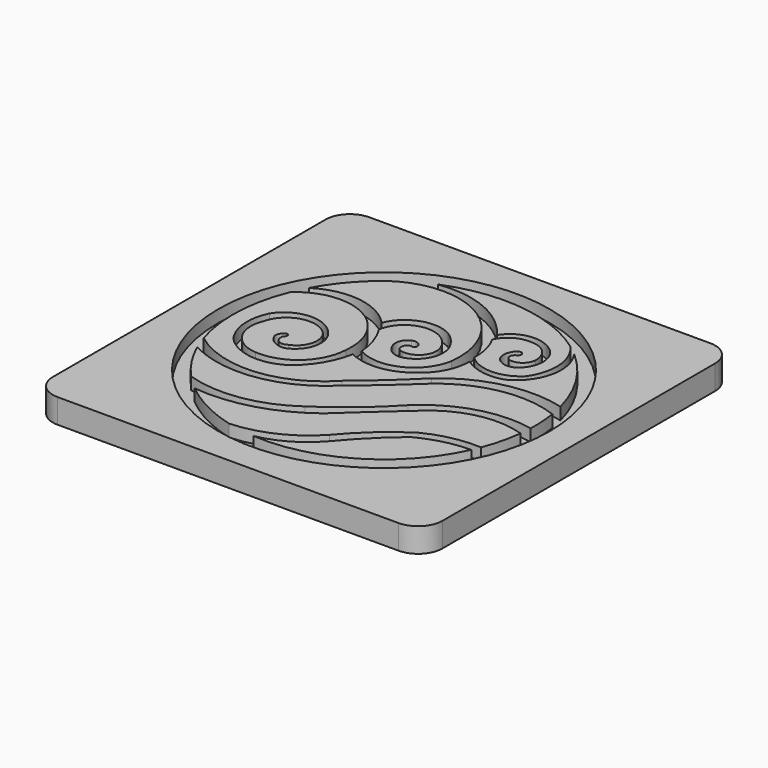
from build123d import *

# Parameters (mm, degrees)
F1_DEPTH = 6.35
F2_R     = 43.18
F3_DEPTH = 3.175


with BuildPart() as f1:
    # F0 (on Top) → F1 (new body)
    with BuildSketch(Plane.XY):
        with BuildLine():
            Line((44.45, 50.8), (-44.45, 50.8))
            ThreePointArc((-44.45, 50.8), (-48.940128, 48.940128), (-50.8, 44.45))
            Line((-50.8, 44.45), (-50.8, -44.45))
            ThreePointArc((-50.8, -44.45), (-48.940128, -48.940128), (-44.45, -50.8))
            Line((-44.45, -50.8), (44.45, -50.8))
            ThreePointArc((44.45, -50.8), (48.940128, -48.940128), (50.8, -44.45))
            Line((50.8, -44.45), (50.8, 44.45))
            ThreePointArc((50.8, 44.45), (48.940128, 48.940128), (44.45, 50.8))
        make_face()
    extrude(amount=F1_DEPTH)

    # F2 (on face) → F3 (cut)
    with BuildSketch(Plane.XY.offset(6.35)):
        Circle(F2_R)
        with BuildLine():
            ThreePointArc((35.830027, -16.315821), (20.204607, -33.790098), (-2.58374, -39.285127))
            ThreePointArc((-2.58374, -39.285127), (4.747118, -36.517246), (10.782814, -31.519946))
            ThreePointArc((10.782814, -31.519946), (16.427451, -25.311935), (22.634907, -19.666689))
            ThreePointArc((22.634907, -19.666689), (29.030027, -17.194081), (35.830027, -16.315821))
        make_face(mode=Mode.SUBTRACT)
        with BuildLine():
            ThreePointArc((-9.899706, -38.105022), (-17.917908, -35.056319), (-25.085457, -30.343315))
            ThreePointArc((-25.085457, -30.343315), (-10.61459, -29.092618), (2.344406, -22.532538))
            ThreePointArc((2.344406, -22.532538), (9.787045, -15.731443), (17.303402, -9.011908))
            ThreePointArc((17.303402, -9.011908), (27.593343, -3.772844), (39.123036, -4.402834))
            ThreePointArc((39.123036, -4.402834), (38.232302, -9.396167), (36.706991, -14.233543))
            ThreePointArc((36.706991, -14.233543), (29.479665, -14.782685), (22.634907, -17.167022))
            ThreePointArc((22.634907, -17.167022), (15.458512, -22.677295), (9.168963, -29.181547))
            ThreePointArc((9.168963, -29.181547), (0.512727, -35.519703), (-9.899706, -38.105022))
        make_face(mode=Mode.SUBTRACT)
        with BuildLine():
            ThreePointArc((-28.951135, -26.680118), (-32.941202, -21.560939), (-36.035977, -15.855765))
            ThreePointArc((-36.035977, -15.855765), (-18.476277, -18.776194), (-2.58374, -10.757512))
            ThreePointArc((-2.58374, -10.757512), (4.205031, -5.018711), (10.782814, 0.960756))
            ThreePointArc((10.782814, 0.960756), (24.078577, 7.549898), (38.864055, 6.291432))
            ThreePointArc((38.864055, 6.291432), (39.291598, 2.483397), (39.34691, -1.348164))
            ThreePointArc((39.34691, -1.348164), (25.459159, -1.978206), (13.467762, -9.011908))
            ThreePointArc((13.467762, -9.011908), (5.843991, -16.249448), (-2.58374, -22.532538))
            ThreePointArc((-2.58374, -22.532538), (-15.275761, -27.732057), (-28.951135, -26.680118))
        make_face(mode=Mode.SUBTRACT)
        with BuildLine():
            ThreePointArc((-3.792618, -9.011908), (-20.108035, -16.966318), (-37.533355, -11.884619))
            ThreePointArc((-37.533355, -11.884619), (-39.334778, 1.664978), (-36.394785, 15.013879))
            ThreePointArc((-36.394785, 15.013879), (-19.548147, 17.120851), (-11.623084, 2.106128))
            ThreePointArc((-11.623084, 2.106128), (-15.8727, -6.927744), (-25.315939, -10.167394))
            ThreePointArc((-25.315939, -10.167394), (-32.018706, -6.233835), (-32.666095, 1.510897))
            ThreePointArc((-32.666095, 1.510897), (-27.765063, 6.938703), (-20.569334, 5.633835))
            ThreePointArc((-20.569334, 5.633835), (-18.810376, 0.630934), (-22.223454, -3.427865))
            ThreePointArc((-22.223454, -3.427865), (-24.636431, -3.441846), (-25.315939, -1.12648))
            ThreePointArc((-25.315939, -1.12648), (-24.87664, -0.443257), (-25.315939, 0.239966))
            ThreePointArc((-25.315939, 0.239966), (-26.550153, -0.620979), (-26.853859, -2.094843))
            ThreePointArc((-26.853859, -2.094843), (-24.8636, -4.486405), (-21.79506, -5.000961))
            ThreePointArc((-21.79506, -5.000961), (-18.057747, -1.44174), (-17.920237, 3.717394))
            ThreePointArc((-17.920237, 3.717394), (-25.512349, 9.134125), (-33.85007, 4.955185))
            ThreePointArc((-33.85007, 4.955185), (-35.104751, -1.829456), (-32.666095, -8.283798))
            ThreePointArc((-32.666095, -8.283798), (-24.810949, -12.292556), (-16.25191, -10.167394))
            ThreePointArc((-16.25191, -10.167394), (-11.765874, -4.942736), (-9.363333, 1.510897))
            ThreePointArc((-9.363333, 1.510897), (-1.52454, 0.163596), (5.813062, 3.233041))
            ThreePointArc((5.813062, 3.233041), (9.821154, 7.902724), (11.248579, 13.888808))
            ThreePointArc((11.248579, 13.888808), (15.748865, 11.857558), (20.686024, 11.802628))
            ThreePointArc((20.686024, 11.802628), (21.955711, 12.195598), (23.115785, 12.844257))
            ThreePointArc((23.115785, 12.844257), (28.022683, 20.770437), (25.723282, 29.804525))
            ThreePointArc((25.723282, 29.804525), (33.435684, 20.785858), (38.110449, 9.878793))
            ThreePointArc((38.110449, 9.878793), (23.134356, 10.130821), (9.823904, 3.26214))
            ThreePointArc((9.823904, 3.26214), (3.175845, -3.052608), (-3.792618, -9.011908))
        make_face(mode=Mode.SUBTRACT)
        with BuildLine():
            ThreePointArc((0, 20.890631), (-7.799723, 21.471197), (-13.435853, 16.048396))
            ThreePointArc((-13.435853, 16.048396), (-23.530574, 21.247029), (-34.610562, 18.764484))
            ThreePointArc((-34.610562, 18.764484), (-30.059834, 25.424462), (-24.247281, 31.017193))
            ThreePointArc((-24.247281, 31.017193), (-1.783652, 31.880624), (8.255853, 11.766737))
            ThreePointArc((8.255853, 11.766737), (1.823287, 3.295446), (-8.805102, 3.717394))
            ThreePointArc((-8.805102, 3.717394), (-9.814889, 8.75871), (-12.02473, 13.401031))
            ThreePointArc((-12.02473, 13.401031), (-5.439061, 19.784732), (2.594116, 15.358591))
            ThreePointArc((2.594116, 15.358591), (2.204285, 10.544215), (-2.272845, 8.73162))
            ThreePointArc((-2.272845, 8.73162), (-3.709614, 10.249179), (-2.272845, 11.766737))
            ThreePointArc((-2.272845, 11.766737), (-1.417286, 11.940645), (-1.321004, 12.808375))
            ThreePointArc((-1.321004, 12.808375), (-2.368046, 13.786265), (-3.799384, 13.724298))
            ThreePointArc((-3.799384, 13.724298), (-5.537072, 11.740216), (-5.199529, 9.124454))
            ThreePointArc((-5.199529, 9.124454), (-3.062346, 6.930124), (0, 6.861728))
            ThreePointArc((0, 6.861728), (4.041718, 10.566846), (4.168157, 16.048396))
            ThreePointArc((4.168157, 16.048396), (2.432702, 18.769606), (0, 20.890631))
        make_face(mode=Mode.SUBTRACT)
        with BuildLine():
            ThreePointArc((19.258106, 29.087057), (13.226177, 30.002315), (8.255853, 26.46427))
            ThreePointArc((8.255853, 26.46427), (-2.006518, 34.7072), (-15.063429, 36.374304))
            ThreePointArc((-15.063429, 36.374304), (4.607369, 39.099476), (23.105911, 31.87654))
            ThreePointArc((23.105911, 31.87654), (26.454351, 24.174835), (24.335554, 16.048396))
            ThreePointArc((24.335554, 16.048396), (17.630398, 13.197088), (10.830184, 15.813604))
            ThreePointArc((10.830184, 15.813604), (10.39549, 20.23006), (8.760267, 24.355602))
            ThreePointArc((8.760267, 24.355602), (11.335212, 27.319516), (15.109342, 28.40168))
            ThreePointArc((15.109342, 28.40168), (15.317869, 28.40325), (15.526231, 28.411666))
            ThreePointArc((15.526231, 28.411666), (19.698978, 26.851735), (21.36774, 22.721307))
            ThreePointArc((21.36774, 22.721307), (19.997953, 20.134608), (17.147247, 19.470681))
            ThreePointArc((17.147247, 19.470681), (16.193526, 20.763747), (17.147247, 22.056814))
            ThreePointArc((17.147247, 22.056814), (17.406668, 23.306557), (16.141526, 23.475597))
            ThreePointArc((16.141526, 23.475597), (14.803341, 21.221821), (15.323924, 18.652923))
            ThreePointArc((15.323924, 18.652923), (18.345832, 17.155036), (21.36774, 18.652923))
            ThreePointArc((21.36774, 18.652923), (22.886635, 24.390358), (19.258106, 29.087057))
        make_face(mode=Mode.SUBTRACT)
    extrude(amount=-F3_DEPTH, mode=Mode.SUBTRACT)


solid = f1.part
